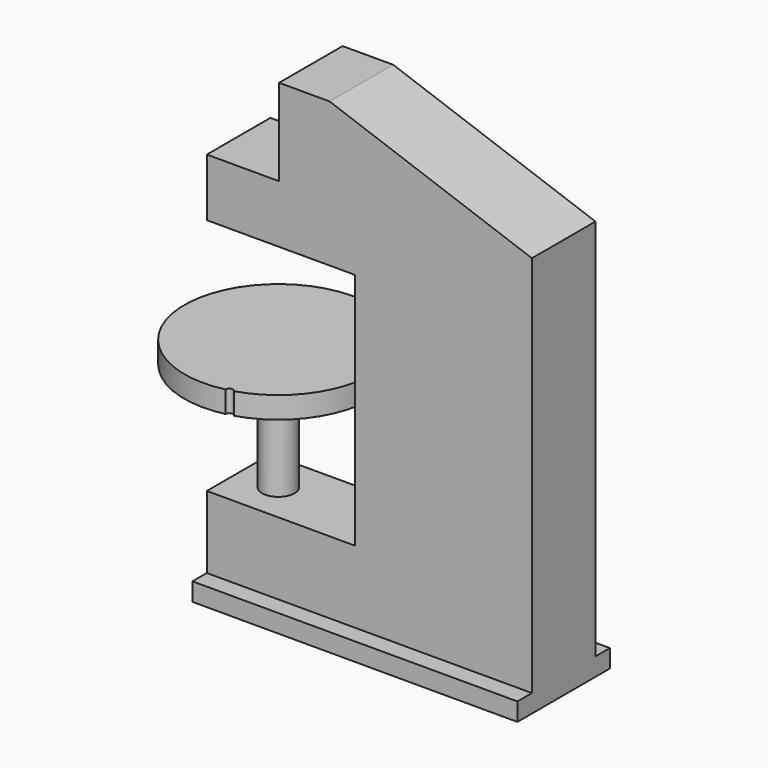
from build123d import *

# Parameters (mm, degrees)
F1_DEPTH = 55
F2_W     = 450
F2_H     = 160
F3_DEPTH = 25
F7_D     = 10


with BuildPart() as f1:
    # F0 (on Front) → F1 (new body, symmetric)
    with BuildSketch(Plane.XZ):
        Polygon((0, 125), (0, 0), (450, 0), (450, 555), (170, 655), (100, 655), (100, 535), (0, 535), (0, 455), (205, 455), (205, 125), align=None)
    extrude(amount=F1_DEPTH, both=True)

    # F2 (on Top) → F3 (join)
    with BuildSketch(Plane.XY):
        with Locations((225, 0)):
            Rectangle(F2_W, F2_H)
    extrude(amount=F3_DEPTH)

    # F4 (on Front) → F5 (revolve)
    with BuildSketch(Plane.XZ):
        Polygon((32.5, 275), (32.5, 125), (55, 125), (55, 305), (-75, 305), (-75, 275), align=None)
    revolve(axis=Axis((55, 0, 215), (0, 0, -1)))

    # F7 (through all)
    with Locations(Plane(origin=(0, 0, 0), x_dir=(1, 0, 0), z_dir=(0, 0, -1))):
        with Locations((88.3679986, 126.6223043203), (602.5738120079, 126.6223043203), (602.5738120079, -128.7268400192), (88.3679986, -128.7268400192)):
            Hole(F7_D / 2)


solid = f1.part
